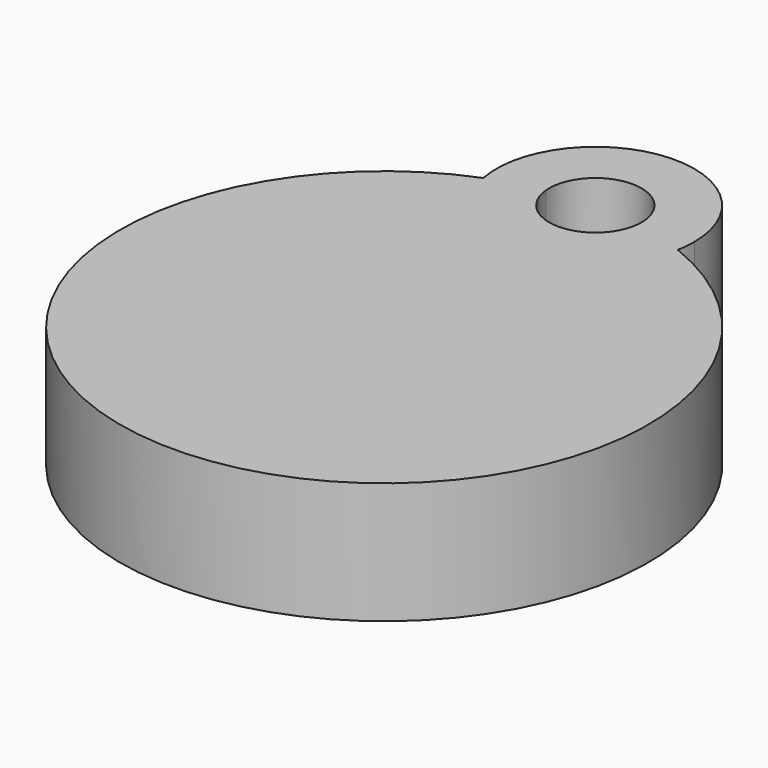
from build123d import *

# Parameters (mm, degrees)
F0_R     = 12.7
F1_DEPTH = 5.842
F3_DEPTH = 5.842
F4_DEPTH = 25.4


with BuildPart() as f1:
    # F0 (on Top) → F1 (new body)
    with BuildSketch(Plane.XY):
        Circle(F0_R)
    extrude(amount=F1_DEPTH)

    # F2 (on face) → F3 (join)
    with BuildSketch(Plane.XY.offset(5.842)):
        with BuildLine():
            ThreePointArc((4.678035, 11.807031), (4.741337, 12.251523), (4.7625, 12.7))
            ThreePointArc((4.7625, 12.7), (-0.448477, 17.441337), (-4.678035, 11.807031))
            ThreePointArc((-4.678035, 11.807031), (-3.463658, 12.218554), (-2.213976, 12.505531))
            ThreePointArc((-2.213976, 12.505531), (-0.097328, 14.920368), (2.2225, 12.7))
            ThreePointArc((2.2225, 12.7), (2.220368, 12.602672), (2.213976, 12.505531))
            ThreePointArc((2.213976, 12.505531), (3.463658, 12.218554), (4.678035, 11.807031))
        make_face()
    extrude(amount=-F3_DEPTH)

    # F2 (on face) → F4 (cut)
    with BuildSketch(Plane.XY.offset(5.842)):
        with BuildLine():
            ThreePointArc((2.213976, 12.505531), (0, 12.7), (-2.213976, 12.505531))
            ThreePointArc((-2.213976, 12.505531), (0, 10.4775), (2.213976, 12.505531))
        make_face()
    extrude(amount=-F4_DEPTH, mode=Mode.SUBTRACT)


solid = f1.part
